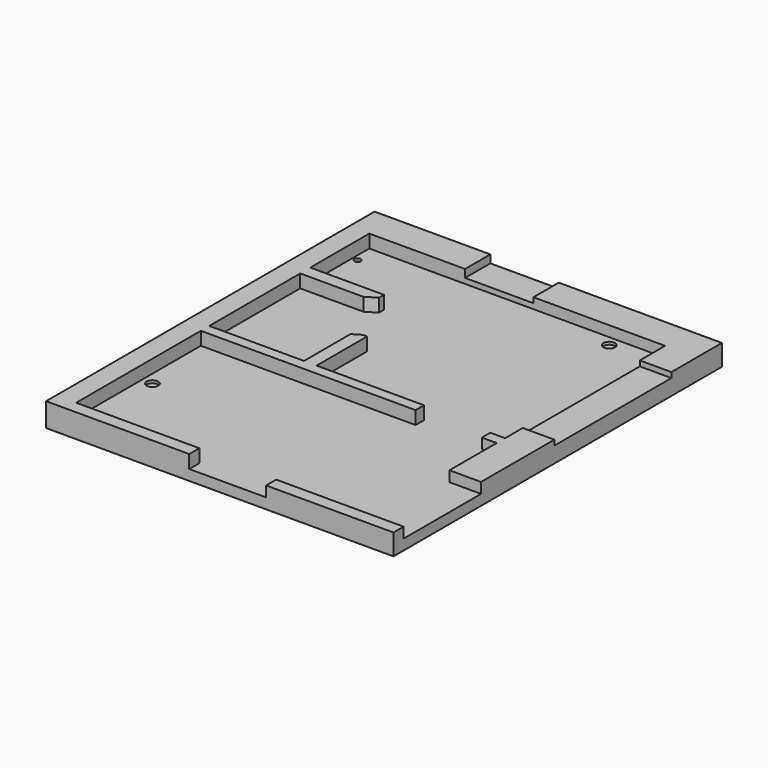
from build123d import *

# Parameters (mm, degrees)
F0_W      = 3300
F0_H      = 3900
F1_DEPTH  = 100
F2_W      = 3300
F2_H      = 3900
F2_W_2    = 2810
F2_H_2    = 1480
F2_W_3    = 1560
F2_H_3    = 1900
F2_W_4    = 1150
F3_DEPTH  = 100
F4_W      = 630
F4_H      = 100
F4_W_2    = 300
F4_H_2    = 920
F4_W_3    = 730
F4_H_3    = 120
F5_DEPTH  = 100
F4_W_4    = 650
F4_H_4    = 300
F4_H_5    = 1390
F6_DEPTH  = 50
F7_W      = 100
F7_H      = 1900
F8_DEPTH  = 100
F9_W      = 630
F9_H      = 100
F10_DEPTH = 100
F11_W     = 700
F11_H     = 120
F12_DEPTH = 100
F13_W     = 120
F13_H     = 600
F14_DEPTH = 100
F15_DEPTH = 25
F17_DEPTH = 125
F18_R     = 55
F18_R_2   = 30
F18_W     = 900
F18_H     = 70
F19_DEPTH = 25
F20_R     = 25
F21_DEPTH = 100


with BuildPart() as f1:
    # F0 (on Top) → F1 (new body)
    with BuildSketch(Plane.XY):
        with Locations((-1650, -1950)):
            Rectangle(F0_W, F0_H)
    extrude(amount=-F1_DEPTH)

    # F2 (on face) → F3 (join)
    with BuildSketch(Plane.XY):
        with Locations((-1650, -1950)):
            Rectangle(F2_W, F2_H)
        with Locations((-1705, -3040)):
            Rectangle(F2_W_2, F2_H_2, mode=Mode.SUBTRACT)
        with Locations((-2330, -1250)):
            Rectangle(F2_W_3, F2_H_3, mode=Mode.SUBTRACT)
        with Locations((-875, -1250)):
            Rectangle(F2_W_4, F2_H_3, mode=Mode.SUBTRACT)
    extrude(amount=F3_DEPTH)

    # F4 (on face) → F5 (cut, through all)
    with BuildSketch(Plane.XY.offset(100)):
        with Locations((-2085, -2250)):
            Rectangle(F4_W, F4_H)
        with Locations((-755, -2250)):
            Rectangle(F4_W, F4_H)
        with Locations((-150, -3320)):
            Rectangle(F4_W_2, F4_H_2)
        with Locations((-1575, -3840)):
            Rectangle(F4_W_3, F4_H_3)
    extrude(amount=-F5_DEPTH, mode=Mode.SUBTRACT)

    # F4 (on face) → F6 (cut)
    with BuildSketch(Plane.XY.offset(100)):
        with Locations((-1875, -150)):
            Rectangle(F4_W_4, F4_H_4)
        with Locations((-150, -1295)):
            Rectangle(F4_W_2, F4_H_5)
    extrude(amount=-F6_DEPTH, mode=Mode.SUBTRACT)

    # F7 (on face) → F8 (cut, through all)
    with BuildSketch(Plane.XY.offset(100)):
        with Locations((-1500, -1250)):
            Rectangle(F7_W, F7_H)
    extrude(amount=-F8_DEPTH, mode=Mode.SUBTRACT)

    # F9 (on face) → F10 (join, through all)
    with BuildSketch(Plane.XY):
        with Locations((-2085, -2250)):
            Rectangle(F9_W, F9_H)
    extrude(amount=F10_DEPTH)

    # F11 (on face) → F12 (join, through all)
    with BuildSketch(Plane.XY):
        with Locations((-2760, -1060)):
            Rectangle(F11_W, F11_H)
    extrude(amount=F12_DEPTH)

    # F13 (on face) → F14 (join, through all)
    with BuildSketch(Plane.XY):
        with Locations((-2150, -1900)):
            Rectangle(F13_W, F13_H)
    extrude(amount=F14_DEPTH)

    # F15 (add): a face of the model
    f15_faces = [f1.faces().sort_by_distance(p)[0] for p in [
        (-2244.9253825805, -150, 100),
    ]]
    extrude(f15_faces, amount=F15_DEPTH)

    # F16 (on face) → F17 (cut, through all)
    with BuildSketch(Plane.XY.offset(125)):
        Polygon((-2410, -1120), (-2410, -1060), (-2510, -1120), align=None)
        Polygon((-2210, -1648), (-2130, -1600), (-2210, -1600), align=None)
    extrude(amount=-F17_DEPTH, mode=Mode.SUBTRACT)

    # F18 (on face) → F19 (cut)
    with BuildSketch(Plane.XY):
        with Locations((-750, -400)):
            Circle(F18_R)
        with Locations((-3060, -500)):
            Circle(F18_R_2)
        with Locations((-1620, -2120)):
            Circle(F18_R)
        with Locations((-3010, -3000)):
            Circle(F18_R)
        with Locations((-2660, -2165)):
            Rectangle(F18_W, F18_H)
    extrude(amount=-F19_DEPTH, mode=Mode.SUBTRACT)

    # F20 (on face) → F21 (cut)
    with BuildSketch(Plane.XY):
        with Locations((-2660, -2160)):
            Circle(F20_R)
    extrude(amount=-F21_DEPTH, mode=Mode.SUBTRACT)


solid = f1.part
